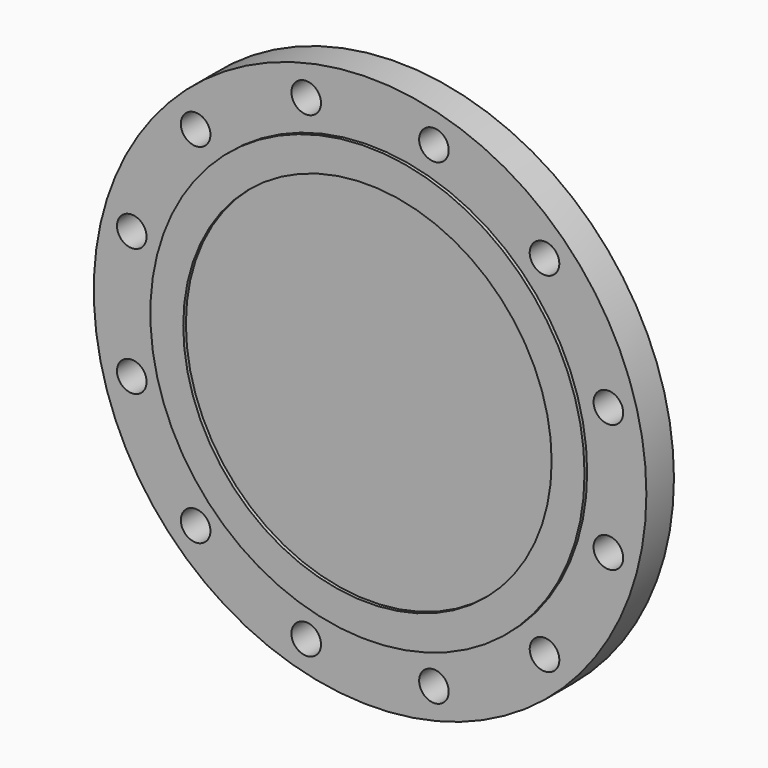
from build123d import *

# Parameters (mm, degrees)
F0_R     = 266.7
F0_R_2   = 14.2875
F0_R_3   = 177.8
F1_DEPTH = 33.274
F2_R     = 209.55
F2_R_2   = 177.8
F3_DEPTH = 3.175
F4_R     = 177.8
F5_DEPTH = 33.274


with BuildPart() as f1:
    # F0 (on Front) → F1 (new body)
    with BuildSketch(Plane.XZ):
        Circle(F0_R)
        with Locations((-168.379802, -168.379802)):
            Circle(F0_R_2, mode=Mode.SUBTRACT)
        with Locations((-61.631285, -230.011087)):
            Circle(F0_R_2, mode=Mode.SUBTRACT)
        with Locations((-230.011087, -61.631285)):
            Circle(F0_R_2, mode=Mode.SUBTRACT)
        with Locations((61.631285, -230.011087)):
            Circle(F0_R_2, mode=Mode.SUBTRACT)
        with Locations((168.379802, -168.379802)):
            Circle(F0_R_2, mode=Mode.SUBTRACT)
        with Locations((230.011087, -61.631285)):
            Circle(F0_R_2, mode=Mode.SUBTRACT)
        with Locations((-230.011087, 61.631285)):
            Circle(F0_R_2, mode=Mode.SUBTRACT)
        with Locations((-168.379802, 168.379802)):
            Circle(F0_R_2, mode=Mode.SUBTRACT)
        with Locations((-61.631285, 230.011087)):
            Circle(F0_R_2, mode=Mode.SUBTRACT)
        Circle(F0_R_3, mode=Mode.SUBTRACT)
        with Locations((230.011087, 61.631285)):
            Circle(F0_R_2, mode=Mode.SUBTRACT)
        with Locations((61.631285, 230.011087)):
            Circle(F0_R_2, mode=Mode.SUBTRACT)
        with Locations((168.379802, 168.379802)):
            Circle(F0_R_2, mode=Mode.SUBTRACT)
    extrude(amount=F1_DEPTH)

    # F2 (on face) → F3 (join)
    with BuildSketch(Plane.XZ.offset(33.274)):
        Circle(F2_R)
        Circle(F2_R_2, mode=Mode.SUBTRACT)
    extrude(amount=F3_DEPTH)

    # F4 (on face) → F5 (join)
    with BuildSketch(Plane.XZ.offset(33.274)):
        Circle(F4_R)
    extrude(amount=-F5_DEPTH)


solid = f1.part
